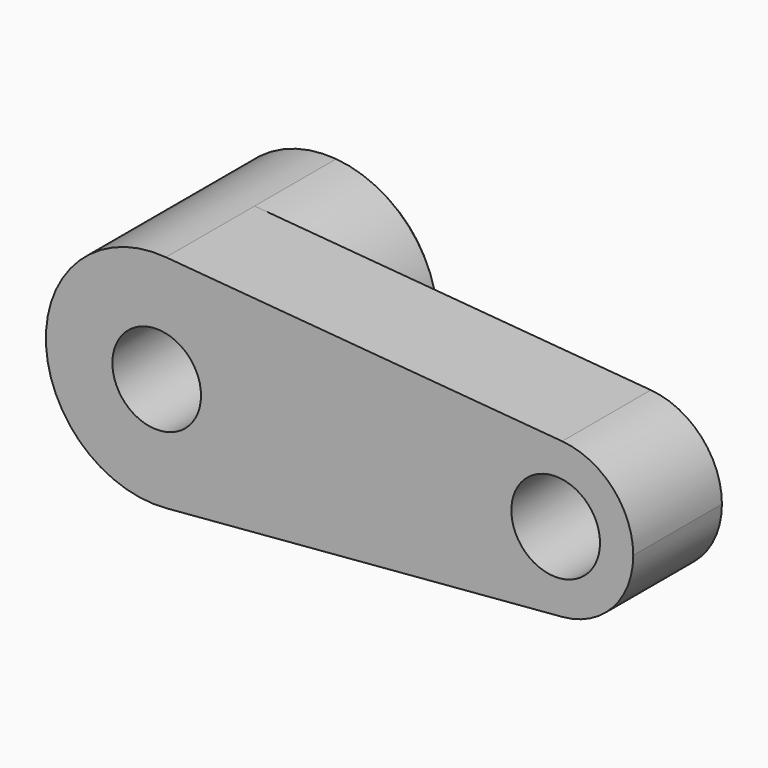
from build123d import *

# Parameters (mm, degrees)
F0_R     = 10
F1_DEPTH = 25
F2_DEPTH = 50
F3_SIZE  = 2


with BuildPart() as f1:
    # F0 (on Front) → F1 (new body)
    with BuildSketch(Plane.XZ):
        with BuildLine():
            ThreePointArc((2.083333, -24.913043), (18.399502, -16.92508), (25, 0))
            ThreePointArc((25, 0), (18.399502, 16.92508), (2.083333, 24.913043))
            ThreePointArc((2.083333, 24.913043), (-25, 0), (2.083333, -24.913043))
        make_face()
        Circle(F0_R, mode=Mode.SUBTRACT)
        with BuildLine():
            ThreePointArc((2.083333, 24.913043), (18.399502, 16.92508), (25, 0))
            ThreePointArc((25, 0), (18.399502, -16.92508), (2.083333, -24.913043))
            Line((2.083333, -24.913043), (91.458333, -17.43913))
            ThreePointArc((91.458333, -17.43913), (72.5, 0), (91.458333, 17.43913))
            Line((91.458333, 17.43913), (2.083333, 24.913043))
        make_face()
        with BuildLine():
            ThreePointArc((107.5, 0), (102.879651, 11.847556), (91.458333, 17.43913))
            ThreePointArc((91.458333, 17.43913), (72.5, 0), (91.458333, -17.43913))
            ThreePointArc((91.458333, -17.43913), (102.879651, -11.847556), (107.5, 0))
        make_face()
        with Locations((90, 0)):
            Circle(F0_R, mode=Mode.SUBTRACT)
    extrude(amount=-F1_DEPTH)

    # F0 (on Front) → F2 (join)
    with BuildSketch(Plane.XZ):
        with BuildLine():
            ThreePointArc((2.083333, -24.913043), (18.399502, -16.92508), (25, 0))
            ThreePointArc((25, 0), (18.399502, 16.92508), (2.083333, 24.913043))
            ThreePointArc((2.083333, 24.913043), (-25, 0), (2.083333, -24.913043))
        make_face()
        Circle(F0_R, mode=Mode.SUBTRACT)
    extrude(amount=-F2_DEPTH)

    # F3
    f3_edges = [f1.edges().sort_by_distance(p)[0] for p in [
        (-10, 50, 0),
        (80, 25, 0),
        (-2.083333, 50, 24.913043),
    ]]
    chamfer(f3_edges, length=F3_SIZE)


solid = f1.part
